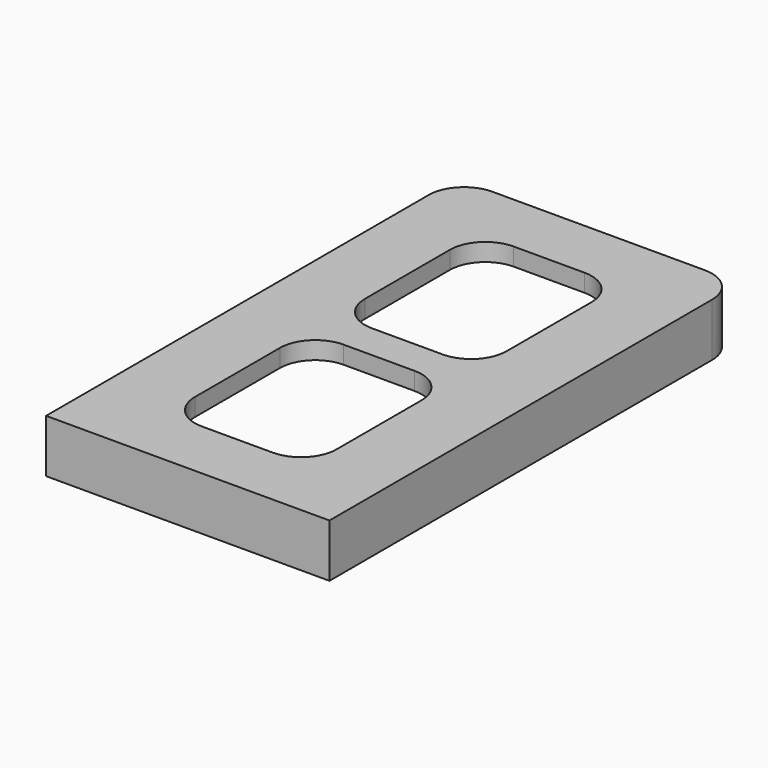
from build123d import *

# Parameters (mm, degrees)
F1_DEPTH = 5
F2_DEPTH = 15


with BuildPart() as f1:
    # F0 (on Top) → F1 (new body)
    with BuildSketch(Plane.XY):
        with BuildLine():
            ThreePointArc((40, 62.5), (37.071068, 69.571068), (30, 72.5))
            Line((30, 72.5), (-30, 72.5))
            ThreePointArc((-30, 72.5), (-37.071068, 69.571068), (-40, 62.5))
            Line((-40, 62.5), (-40, -72.5))
            Line((-40, -72.5), (40, -72.5))
            Line((40, -72.5), (40, 62.5))
        make_face()
        with BuildLine():
            Line((-25, 70), (25, 70))
            ThreePointArc((25, 70), (32.071068, 67.071068), (35, 60))
            Line((35, 60), (35, -55))
            ThreePointArc((35, -55), (33.535534, -58.535534), (30, -60))
            ThreePointArc((30, -60), (26.464466, -61.464466), (25, -65))
            ThreePointArc((25, -65), (23.535534, -68.535534), (20, -70))
            Line((20, -70), (-20, -70))
            ThreePointArc((-20, -70), (-23.535534, -68.535534), (-25, -65))
            ThreePointArc((-25, -65), (-26.464466, -61.464466), (-30, -60))
            ThreePointArc((-30, -60), (-33.535534, -58.535534), (-35, -55))
            Line((-35, -55), (-35, 60))
            ThreePointArc((-35, 60), (-32.071068, 67.071068), (-25, 70))
        make_face(mode=Mode.SUBTRACT)
        with BuildLine():
            ThreePointArc((35, 60), (32.071068, 67.071068), (25, 70))
            Line((25, 70), (-25, 70))
            ThreePointArc((-25, 70), (-32.071068, 67.071068), (-35, 60))
            Line((-35, 60), (-35, -55))
            ThreePointArc((-35, -55), (-33.535534, -58.535534), (-30, -60))
            ThreePointArc((-30, -60), (-26.464466, -61.464466), (-25, -65))
            ThreePointArc((-25, -65), (-23.535534, -68.535534), (-20, -70))
            Line((-20, -70), (20, -70))
            ThreePointArc((20, -70), (23.535534, -68.535534), (25, -65))
            ThreePointArc((25, -65), (26.464466, -61.464466), (30, -60))
            ThreePointArc((30, -60), (33.535534, -58.535534), (35, -55))
            Line((35, -55), (35, 60))
        make_face()
        with BuildLine():
            ThreePointArc((20, -45), (17.071068, -52.071068), (10, -55))
            Line((10, -55), (-10, -55))
            ThreePointArc((-10, -55), (-17.071068, -52.071068), (-20, -45))
            Line((-20, -45), (-20, -15))
            ThreePointArc((-20, -15), (-17.071068, -7.928932), (-10, -5))
            Line((-10, -5), (10, -5))
            ThreePointArc((10, -5), (17.071068, -7.928932), (20, -15))
            Line((20, -15), (20, -45))
        make_face(mode=Mode.SUBTRACT)
        with BuildLine():
            Line((-10, 55), (10, 55))
            ThreePointArc((10, 55), (17.071068, 52.071068), (20, 45))
            Line((20, 45), (20, 15))
            ThreePointArc((20, 15), (17.071068, 7.928932), (10, 5))
            Line((10, 5), (-10, 5))
            ThreePointArc((-10, 5), (-17.071068, 7.928932), (-20, 15))
            Line((-20, 15), (-20, 45))
            ThreePointArc((-20, 45), (-17.071068, 52.071068), (-10, 55))
        make_face(mode=Mode.SUBTRACT)
    extrude(amount=-F1_DEPTH)

    # F0 (on Top) → F2 (join)
    with BuildSketch(Plane.XY):
        with BuildLine():
            ThreePointArc((40, 62.5), (37.071068, 69.571068), (30, 72.5))
            Line((30, 72.5), (-30, 72.5))
            ThreePointArc((-30, 72.5), (-37.071068, 69.571068), (-40, 62.5))
            Line((-40, 62.5), (-40, -72.5))
            Line((-40, -72.5), (40, -72.5))
            Line((40, -72.5), (40, 62.5))
        make_face()
        with BuildLine():
            Line((-25, 70), (25, 70))
            ThreePointArc((25, 70), (32.071068, 67.071068), (35, 60))
            Line((35, 60), (35, -55))
            ThreePointArc((35, -55), (33.535534, -58.535534), (30, -60))
            ThreePointArc((30, -60), (26.464466, -61.464466), (25, -65))
            ThreePointArc((25, -65), (23.535534, -68.535534), (20, -70))
            Line((20, -70), (-20, -70))
            ThreePointArc((-20, -70), (-23.535534, -68.535534), (-25, -65))
            ThreePointArc((-25, -65), (-26.464466, -61.464466), (-30, -60))
            ThreePointArc((-30, -60), (-33.535534, -58.535534), (-35, -55))
            Line((-35, -55), (-35, 60))
            ThreePointArc((-35, 60), (-32.071068, 67.071068), (-25, 70))
        make_face(mode=Mode.SUBTRACT)
    extrude(amount=-F2_DEPTH)


solid = f1.part
